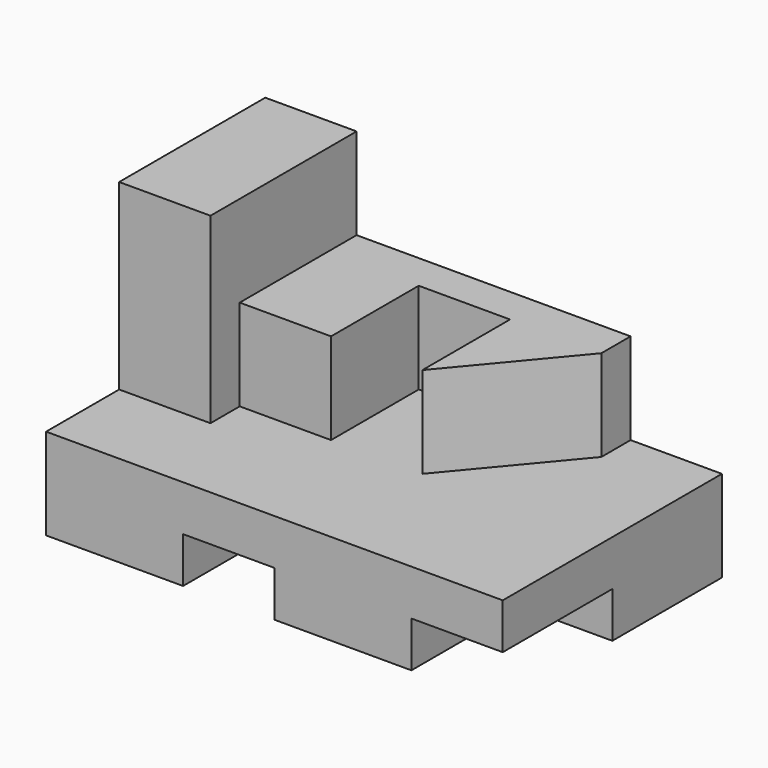
from build123d import *

# Parameters (mm, degrees)
F1_DEPTH = 190.5
F2_DEPTH = 127
F0_W     = 63.5
F0_H     = 63.5
F3_DEPTH = 101.6
F4_DEPTH = 25.4
F6_DEPTH = 63.5
F0_H_2   = 31.75
F7_DEPTH = 95.25


with BuildPart() as f1:
    # F0 (on Front) → F1 (new body)
    with BuildSketch(Plane.XZ):
        Polygon((0, 63.5), (0, 0), (95.25, 0), (95.25, 31.75), (158.75, 31.75), (158.75, 0), (254, 0), (254, 31.75), (317.5, 31.75), (317.5, 63.5), (254, 63.5), (190.5, 63.5), (127, 63.5), (63.5, 63.5), align=None)
    extrude(amount=F1_DEPTH)

    # F0 (on Front) → F2 (join)
    with BuildSketch(Plane.XZ):
        Polygon((0, 190.5), (0, 63.5), (63.5, 63.5), (63.5, 127), (63.5, 190.5), align=None)
    extrude(amount=F2_DEPTH)

    # F0 (on Front) → F3 (join)
    with BuildSketch(Plane.XZ):
        with Locations((95.25, 95.25)):
            Rectangle(F0_W, F0_H)
        with Locations((222.25, 95.25)):
            Rectangle(F0_W, F0_H)
    extrude(amount=F3_DEPTH)

    # F0 (on Front) → F4 (join)
    with BuildSketch(Plane.XZ):
        with Locations((158.75, 95.25)):
            Rectangle(F0_W, F0_H)
    extrude(amount=F4_DEPTH)

    # F5 (on face) → F6 (cut)
    with BuildSketch(Plane.XY.offset(127)):
        Polygon((254, -25.4), (190.5, -101.6), (254, -101.6), align=None)
    extrude(amount=-F6_DEPTH, mode=Mode.SUBTRACT)

    # F0 (on Front) → F7 (join)
    with BuildSketch(Plane.XZ):
        with Locations((285.75, 15.875)):
            Rectangle(F0_W, F0_H_2)
    extrude(amount=F7_DEPTH)


solid = f1.part
